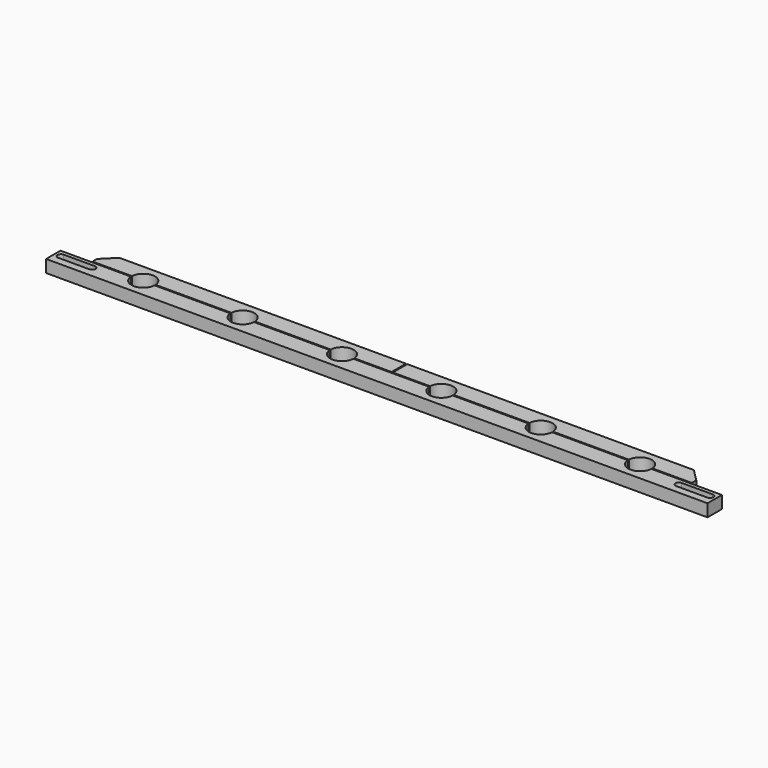
from build123d import *

# Parameters (mm, degrees)
F1_DEPTH = 20


with BuildPart() as f1:
    # F0 (on Top) → F1 (new body)
    with BuildSketch(Plane.XY):
        with BuildLine():
            Line((482.5, 10), (462.5, 30))
            Line((462.5, 30), (1, 30))
            Line((1, 30), (1, 1))
            Line((1, 1), (61.026334, 1))
            ThreePointArc((61.026334, 1), (80, 19), (98.973666, 1))
            Line((98.973666, 1), (221.026334, 1))
            ThreePointArc((221.026334, 1), (240, 19), (258.973666, 1))
            Line((258.973666, 1), (381.026334, 1))
            ThreePointArc((381.026334, 1), (400, 19), (418.973666, 1))
            Line((418.973666, 1), (482.5, 1))
            Line((482.5, 1), (482.5, 10))
        make_face()
        with BuildLine():
            Line((-532.5, -30), (532.5, -30))
            Line((532.5, -30), (532.5, -1))
            Line((532.5, -1), (418.973666, -1))
            ThreePointArc((418.973666, -1), (400, -19), (381.026334, -1))
            Line((381.026334, -1), (258.973666, -1))
            ThreePointArc((258.973666, -1), (240, -19), (221.026334, -1))
            Line((221.026334, -1), (98.973666, -1))
            ThreePointArc((98.973666, -1), (80, -19), (61.026334, -1))
            Line((61.026334, -1), (-61.026334, -1))
            ThreePointArc((-61.026334, -1), (-80, -19), (-98.973666, -1))
            Line((-98.973666, -1), (-221.026334, -1))
            ThreePointArc((-221.026334, -1), (-240, -19), (-258.973666, -1))
            Line((-258.973666, -1), (-381.026334, -1))
            ThreePointArc((-381.026334, -1), (-400, -19), (-418.973666, -1))
            Line((-418.973666, -1), (-532.5, -1))
            Line((-532.5, -1), (-532.5, -30))
        make_face()
        with BuildLine():
            ThreePointArc((-522.5, -18), (-528, -12.5), (-522.5, -7))
            Line((-522.5, -7), (-472.5, -7))
            ThreePointArc((-472.5, -7), (-467, -12.5), (-472.5, -18))
            Line((-472.5, -18), (-522.5, -18))
        make_face(mode=Mode.SUBTRACT)
        with BuildLine():
            ThreePointArc((522.5, -7), (528, -12.5), (522.5, -18))
            Line((522.5, -18), (472.5, -18))
            ThreePointArc((472.5, -18), (467, -12.5), (472.5, -7))
            Line((472.5, -7), (522.5, -7))
        make_face(mode=Mode.SUBTRACT)
        with BuildLine():
            Line((-61.026334, 1), (-1, 1))
            Line((-1, 1), (-1, 30))
            Line((-1, 30), (-462.5, 30))
            Line((-462.5, 30), (-482.5, 10))
            Line((-482.5, 10), (-482.5, 1))
            Line((-482.5, 1), (-418.973666, 1))
            ThreePointArc((-418.973666, 1), (-400, 19), (-381.026334, 1))
            Line((-381.026334, 1), (-258.973666, 1))
            ThreePointArc((-258.973666, 1), (-240, 19), (-221.026334, 1))
            Line((-221.026334, 1), (-98.973666, 1))
            ThreePointArc((-98.973666, 1), (-80, 19), (-61.026334, 1))
        make_face()
    extrude(amount=F1_DEPTH)


solid = f1.part
